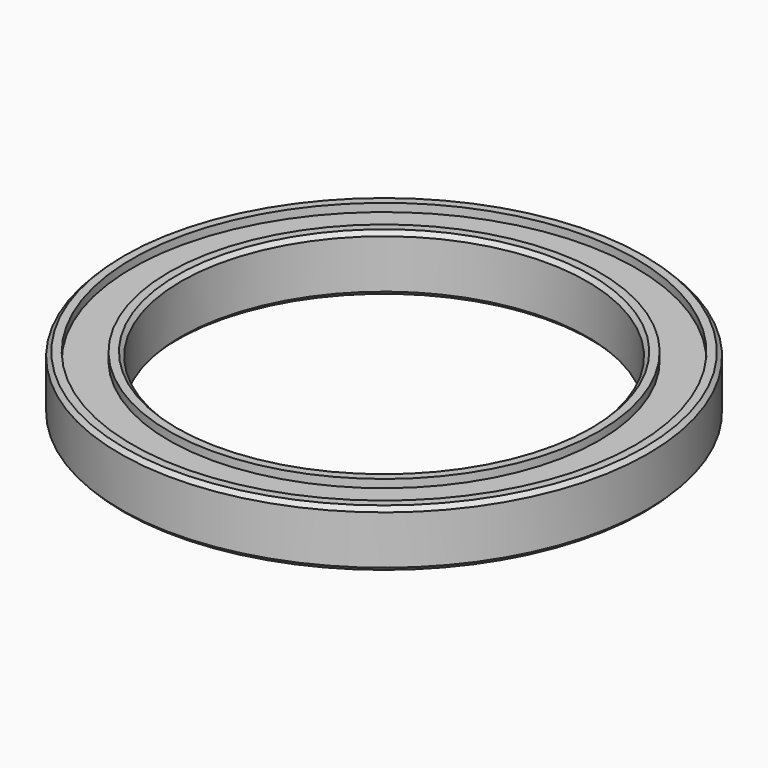
from build123d import *

# Parameters (mm, degrees)
SKETCH_R      = 32.5
SKETCH_R_2    = 25
PAD_DEPTH     = 7
SKETCH001_R   = 31
SKETCH001_R_2 = 26.5
POCKET_DEPTH  = 1
CHAMFER_SIZE  = 0.5


with BuildPart() as part:
    # Sketch → Pad (new body)
    with BuildSketch(Plane.XY.offset(-3.5)):
        Circle(SKETCH_R)
        Circle(SKETCH_R_2, mode=Mode.SUBTRACT)
    extrude(amount=PAD_DEPTH)

    # Sketch001 (on Face4 of Pad) → Pocket (cut)
    with BuildSketch(Plane.XY.offset(3.5)):
        Circle(SKETCH001_R)
        Circle(SKETCH001_R_2, mode=Mode.SUBTRACT)
    pocket = extrude(amount=-POCKET_DEPTH, mode=Mode.SUBTRACT)

    # Mirrored: Pocket across XY
    add(pocket.mirror(Plane.XY), mode=Mode.SUBTRACT)

    # Chamfer
    chamfer_edges = [part.edges().sort_by_distance(p)[0] for p in [
        (-32.5, 0, 3.5),
        (-32.5, 0, -3.5),
        (-25, 0, 3.5),
        (-25, 0, -3.5),
    ]]
    chamfer(chamfer_edges, length=CHAMFER_SIZE)


solid = part.part
